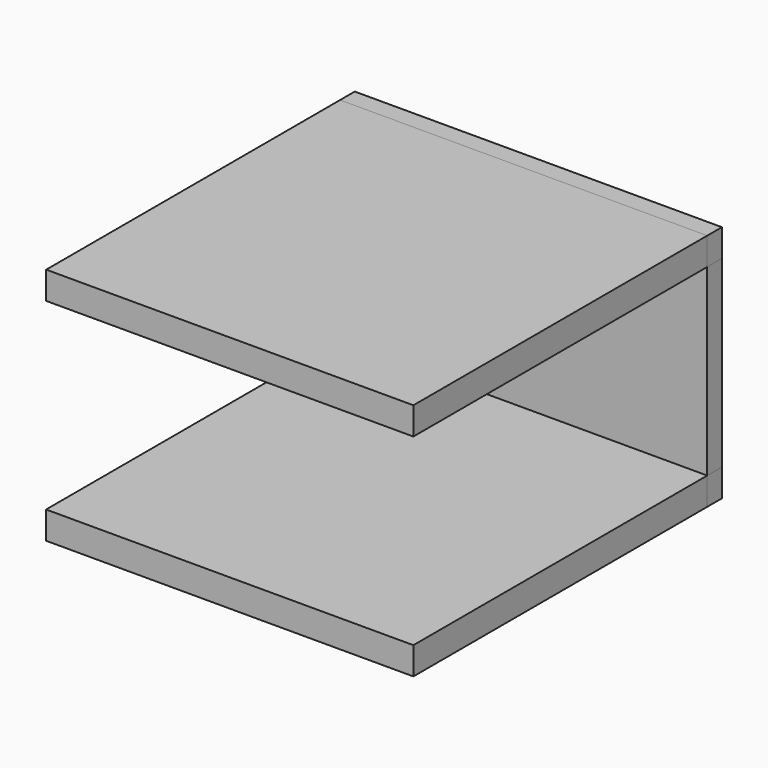
from build123d import *

# Parameters (mm, degrees)
F0_W        = 9.99621
F0_H        = 5
F1_DEPTH    = 0.5
F2_W        = 9.99621
F2_H        = 0.75
F4_DEPTH    = 10
F4_FACE_W   = 9.99621
F4_FACE_H   = 0.75
F4_FACE_W_2 = 10
F5_DEPTH    = 0.5


with BuildPart() as f1:
    # F0 (on Front) → F1 (new body)
    with BuildSketch(Plane.XZ):
        with Locations((5.001895, 2.5)):
            Rectangle(F0_W, F0_H)
    extrude(amount=F1_DEPTH)


with BuildPart() as f4:
    # F2 (on face) + F3 (on face) → F4 (new body)
    with BuildSketch(Plane.XZ.offset(0.5)):
        with Locations((5.001895, 5.375)):
            Rectangle(F2_W, F2_H)
    with BuildSketch(Plane.XZ.offset(0.5)):
        Polygon((0.00379, 0), (0, 0), (0, -0.75), (10, -0.75), (10, 0), align=None)
    extrude(amount=F4_DEPTH)


with BuildPart() as f5:
    # F4_face (on face) → F5 (new body)
    with BuildSketch(Plane(origin=(5.001895, -0.5, 5.375), x_dir=(1, 0, 0), z_dir=(0, 1, 0))):
        Rectangle(F4_FACE_W, F4_FACE_H)
        with Locations((-0.001895, 5.75)):
            Rectangle(F4_FACE_W_2, F4_FACE_H)
    extrude(amount=F5_DEPTH)


solid = Compound([f1.part, f4.part, f5.part])
